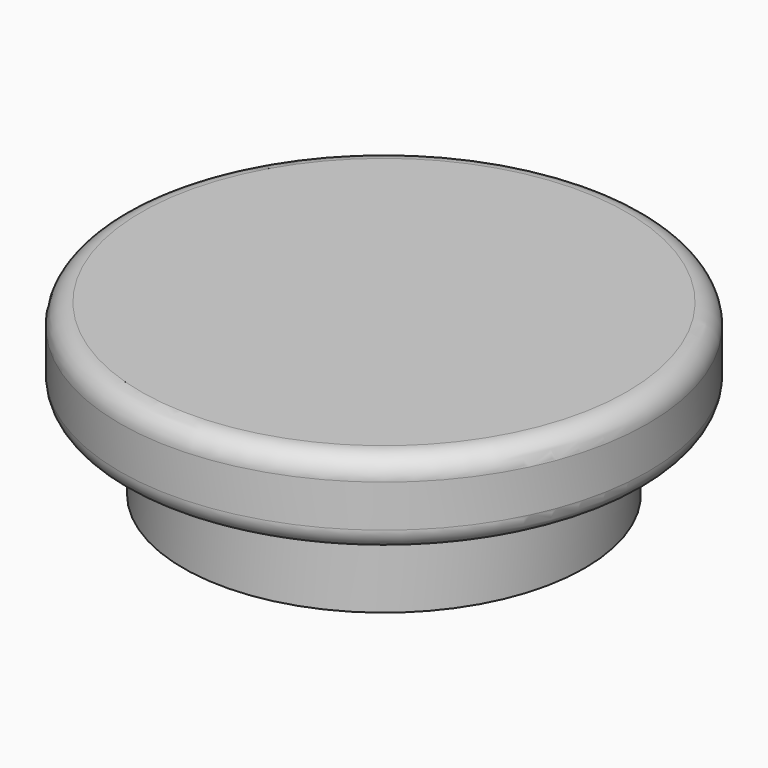
from build123d import *

# Parameters (mm, degrees)
F0_R     = 15.875
F0_R_2   = 12.065
F0_R_3   = 9.45129
F1_DEPTH = 5.08
F2_DEPTH = 5.08
F3_R     = 1.27


with BuildPart() as f1:
    # F0 (on Top) → F1 (new body)
    with BuildSketch(Plane.XY):
        Circle(F0_R)
        Circle(F0_R_2, mode=Mode.SUBTRACT)
        Circle(F0_R_2)
        Circle(F0_R_3, mode=Mode.SUBTRACT)
        Circle(F0_R_3)
    extrude(amount=F1_DEPTH)

    # F0 (on Top) → F2 (join)
    with BuildSketch(Plane.XY):
        Circle(F0_R_2)
        Circle(F0_R_3, mode=Mode.SUBTRACT)
    extrude(amount=-F2_DEPTH)

    # F3
    f3_edges = [f1.edges().sort_by_distance(p)[0] for p in [
        (-15.875, 0, 5.08),
        (-15.875, 0, 0),
    ]]
    fillet(f3_edges, radius=F3_R)


solid = f1.part
